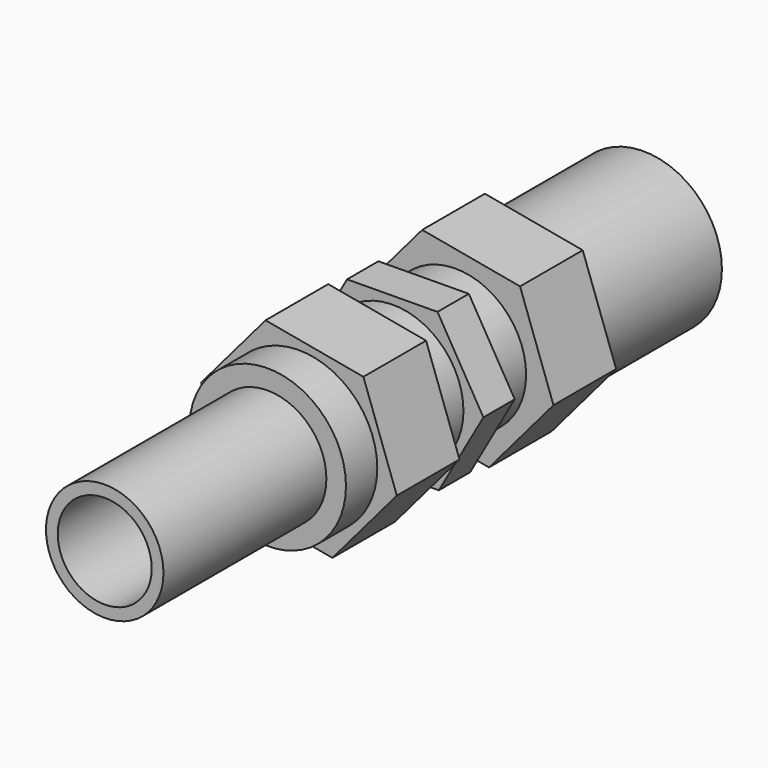
from build123d import *

# Parameters (mm, degrees)
F0_R      = 10
F1_DEPTH  = 10
F3_DEPTH  = 10
F4_R      = 9
F5_DEPTH  = 5
F7_DEPTH  = 5
F8_R      = 9
F9_DEPTH  = 5
F11_DEPTH = 10
F12_R     = 10
F13_DEPTH = 5
F14_R     = 7.5
F14_R_2   = 6
F16_DEPTH = 26


with BuildPart() as f1:
    # F0 (on Front) → F1 (new body, symmetric)
    with BuildSketch(Plane.XZ):
        Circle(F0_R)
    extrude(amount=F1_DEPTH, both=True)

    # F2 (on face) → F3 (join)
    with BuildSketch(Plane.XZ.offset(10)):
        Polygon((4.264543, -11.964406), (12.493751, -2.289001), (8.229208, 9.675405), (-4.264543, 11.964406), (-12.493751, 2.289001), (-8.229208, -9.675405), align=None)
    extrude(amount=F3_DEPTH)

    # F4 (on face) → F5 (join)
    with BuildSketch(Plane.XZ.offset(20)):
        Circle(F4_R)
    extrude(amount=F5_DEPTH)

    # F6 (on face) → F7 (join)
    with BuildSketch(Plane.XZ.offset(25)):
        Polygon((5.858879, -9.95022), (11.546582, 0.098828), (5.687704, 10.049048), (-5.858879, 9.95022), (-11.546582, -0.098828), (-5.687704, -10.049048), align=None)
    extrude(amount=F7_DEPTH)

    # F8 (on face) → F9 (join)
    with BuildSketch(Plane.XZ.offset(30)):
        Circle(F8_R)
    extrude(amount=F9_DEPTH)

    # F10 (on face) → F11 (join)
    with BuildSketch(Plane.XZ.offset(35)):
        Polygon((8.229208, 9.675405), (-4.264543, 11.964406), (-12.493751, 2.289001), (-8.229208, -9.675405), (4.264543, -11.964406), (12.493751, -2.289001), align=None)
    extrude(amount=F11_DEPTH)

    # F12 (on face) → F13 (join)
    with BuildSketch(Plane.XZ.offset(45)):
        Circle(F12_R)
    extrude(amount=F13_DEPTH)

    # F14 (on face) → F16 (join, through all)
    with BuildSketch(Plane.XZ.offset(50)):
        Circle(F14_R)
        Circle(F14_R_2, mode=Mode.SUBTRACT)
    extrude(amount=F16_DEPTH)


solid = f1.part
